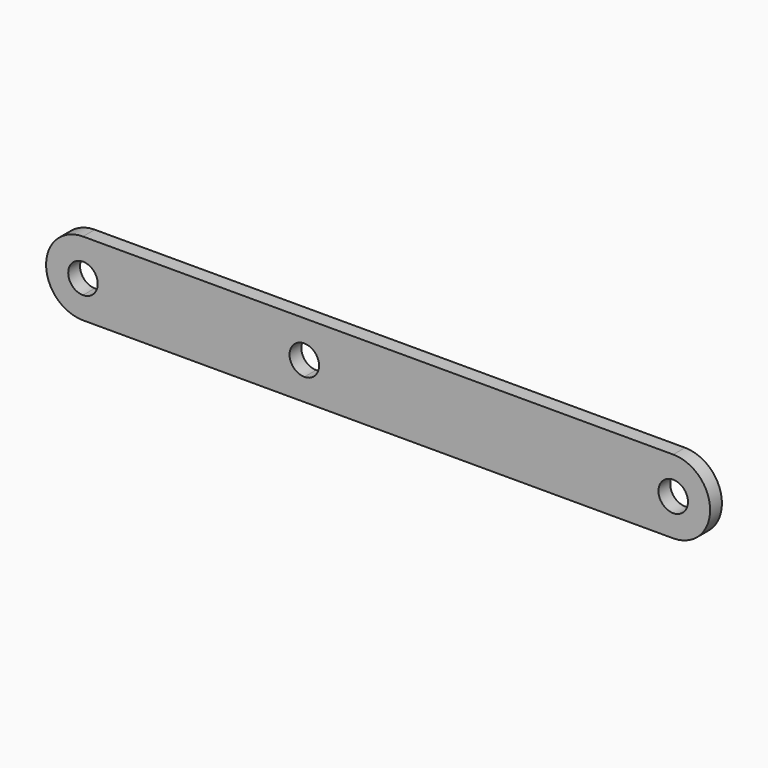
from build123d import *

# Parameters (mm, degrees)
F0_R     = 5
F1_DEPTH = 5


with BuildPart() as f1:
    # F0 (on Front) → F1 (new body)
    with BuildSketch(Plane.XZ):
        with BuildLine():
            ThreePointArc((0, 25), (-12.5, 12.5), (0, 0))
            Line((0, 0), (200, 0))
            ThreePointArc((200, 0), (212.5, 12.5), (200, 25))
            Line((200, 25), (0, 25))
        make_face()
        with BuildLine():
            ThreePointArc((0, 7.5), (-5, 12.5), (0, 17.5))
            ThreePointArc((0, 17.5), (3.535534, 16.035534), (5, 12.5))
            ThreePointArc((5, 12.5), (3.535534, 8.964466), (0, 7.5))
        make_face(mode=Mode.SUBTRACT)
        with BuildLine():
            ThreePointArc((80, 12.5), (78.535534, 8.964466), (75, 7.5))
            ThreePointArc((75, 7.5), (70, 12.5), (75, 17.5))
            ThreePointArc((75, 17.5), (78.535534, 16.035534), (80, 12.5))
        make_face(mode=Mode.SUBTRACT)
        with Locations((200, 12.5)):
            Circle(F0_R, mode=Mode.SUBTRACT)
    extrude(amount=F1_DEPTH)


solid = f1.part
